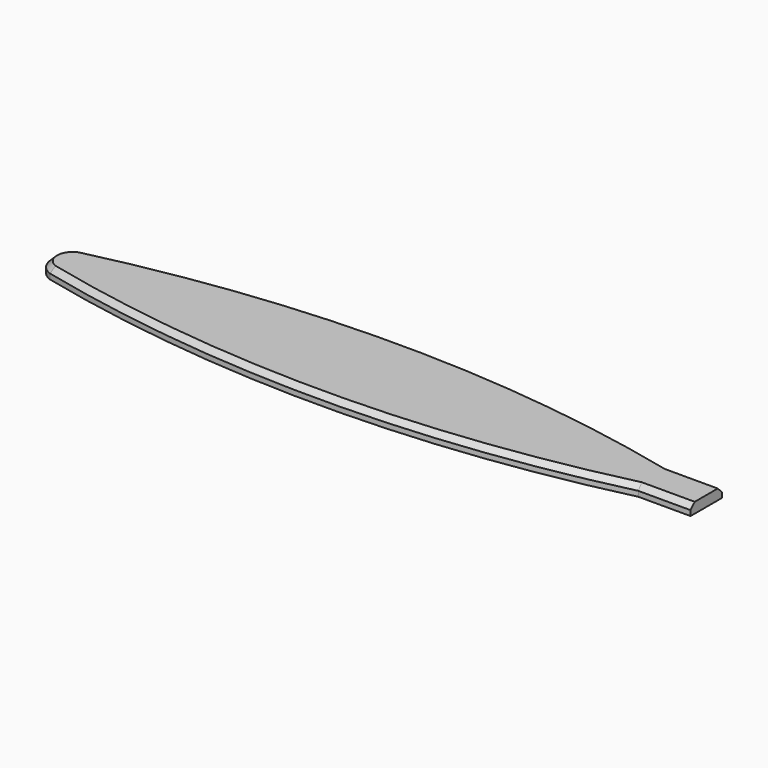
from build123d import *

# Parameters (mm, degrees)
PAD010_DEPTH    = 0.8
CHAMFER_SIZE    = 0.4
CHAMFER001_SIZE = 0.4
CHAMFER002_SIZE = 0.4
CHAMFER003_SIZE = 0.4


with BuildPart() as part:
    # Sketch018 → Pad010 (new body)
    with BuildSketch(Plane.XY):
        with BuildLine():
            Line((0, 1.5), (-4, 1.5))
            ThreePointArc((-4, 1.5), (-26.5, 4.148479), (-49, 1.5))
            ThreePointArc((-49, 1.5), (-50.055354, 0), (-49, -1.5))
            ThreePointArc((-49, -1.5), (-26.5, -4.148479), (-4, -1.5))
            Line((0, -1.5), (-4, -1.5))
            Line((0, 1.5), (0, -1.5))
        make_face()
    extrude(amount=PAD010_DEPTH)

    # Chamfer
    chamfer_edges = [part.edges().sort_by_distance(p)[0] for p in [
        (-2, 1.5, 0.8),
        (-2, -1.5, 0.8),
    ]]
    chamfer(chamfer_edges, length=CHAMFER_SIZE)

    # Chamfer001
    chamfer001_edges = [part.edges().sort_by_distance(p)[0] for p in [
        (-3.192094, 1.303463, 0.8),
        (-26.5, 4.148479, 0.8),
    ]]
    chamfer(chamfer001_edges, length=CHAMFER001_SIZE)

    # Chamfer002
    chamfer002_edges = [part.edges().sort_by_distance(p)[0] for p in [
        (-26.5, -4.148479, 0.8),
        (-3.192094, -1.303463, 0.8),
    ]]
    chamfer(chamfer002_edges, length=CHAMFER002_SIZE)

    # Chamfer003
    chamfer003_edges = [part.edges().sort_by_distance(p)[0] for p in [
        (-50.055354, 0, 0.8),
    ]]
    chamfer(chamfer003_edges, length=CHAMFER003_SIZE)


solid = part.part
